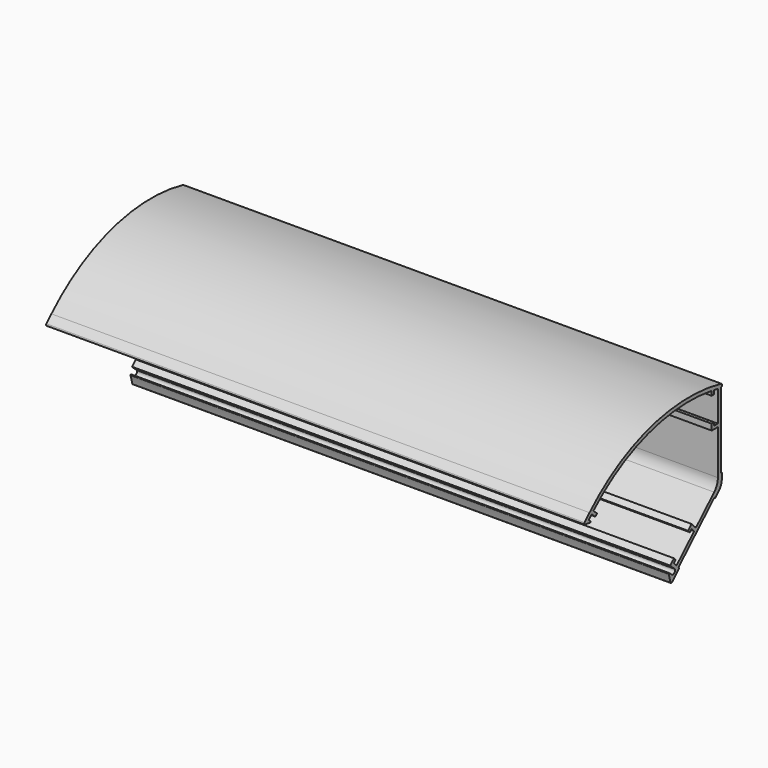
from build123d import *

# Parameters (mm, degrees)
F1_DEPTH  = 112.7125
F2_T      = -1.524
F5_DEPTH  = 225.425
F7_DEPTH  = 225.425
F8_R      = 51.8099901909
F9_DEPTH  = 225.425
F14_W     = 1.27
F14_H     = 1.8664713708
F15_DEPTH = 225.425
F17_DEPTH = 225.425
F18_W     = 0.5953125
F18_H     = 31.75
F19_DEPTH = 225.425
F21_DEPTH = 225.425
F23_DEPTH = 225.425
F24_R     = 0.508
F25_R     = 6.35
F26_R     = 0.254


with BuildPart() as f1:
    # F0 (on Right) → F1 (new body, symmetric)
    with BuildSketch(Plane.YZ):
        with BuildLine():
            Line((-72.136, 14.4276117903), (-26.3105725372, -25.4078245579))
            Line((-26.3105725372, -25.4078245579), (0, 0))
            Line((0, 0), (0, 37.338))
            ThreePointArc((0, 37.338), (-36.8647965725, 36.3151722047), (-68.7392263709, 17.7657752319))
            Line((-68.7392263709, 17.7657752319), (-72.136, 14.4276117903))
        make_face()
    extrude(amount=F1_DEPTH, both=True)

    # F2
    f2_openings = [f1.faces().sort_by_distance(p)[0] for p in [
        (0, -49.223286, -5.490106),
        (-112.7125, -29.609995, 11.681685),
        (112.7125, -29.609995, 11.681685),
    ]]
    offset(amount=F2_T, openings=f2_openings)

    # F4 (on face) → F5 (join, through all)
    with BuildSketch(Plane(origin=(-112.7125, 0, 0), x_dir=(0, -1, 0), z_dir=(-1, 0, 0))):
        Polygon((69.0653059094, 11.7582981414), (70.9822682431, 13.424688075), (69.170655641, 15.2050419106), (67.2536933072, 13.5386519769), align=None)
    extrude(amount=-F5_DEPTH)

    # F6 (on face) → F7 (join, through all)
    with BuildSketch(Plane(origin=(-112.7125, 0, 0), x_dir=(0, -1, 0), z_dir=(-1, 0, 0))):
        Polygon((27.5549826692, -20.9733491998), (25.6380203354, -22.6397391335), (27.4651434283, -24.4041713944), (29.382105762, -22.7377814608), align=None)
    extrude(amount=-F7_DEPTH)

    # F8 (on face) → F9 (cut, through all)
    with BuildSketch(Plane(origin=(-112.7125, 0, 0), x_dir=(0, -1, 0), z_dir=(-1, 0, 0))):
        with Locations((76.7665722185, -37.1750323717)):
            Circle(F8_R)
    extrude(amount=-F9_DEPTH, mode=Mode.SUBTRACT)

    # F10 (on face) + F11 (on face) + F12 (on face) + F13 (on face) + F14 (on face) → F15 (join, through all)
    with BuildSketch(Plane(origin=(-112.7125, 0, 0), x_dir=(0, -1, 0), z_dir=(-1, 0, 0))):
        Polygon((23.17140416, -20.2577555812), (24.0849657065, -21.1399717116), (25.5666650167, -19.8519501518), (24.530017001, -18.8508707997), align=None)
    with BuildSketch(Plane(origin=(-112.7125, 0, 0), x_dir=(0, -1, 0), z_dir=(-1, 0, 0))):
        Polygon((23.6164554546, -17.9686546692), (25.5666650167, -19.8519501518), (26.4488811472, -18.9383886054), (24.498671585, -17.0550931227), align=None)
    with BuildSketch(Plane(origin=(-112.7125, 0, 0), x_dir=(0, -1, 0), z_dir=(-1, 0, 0))):
        Polygon((65.7138225954, 15.0519527371), (67.6307849291, 16.7183426707), (66.724978628, 17.6085195885), (64.8080162943, 15.9421296549), align=None)
    with BuildSketch(Plane(origin=(-112.7125, 0, 0), x_dir=(0, -1, 0), z_dir=(-1, 0, 0))):
        Polygon((13.0308709947, -10.4651565328), (13.9444325411, -11.3473726633), (15.303045382, -9.9404878818), (16.2166069285, -10.8227040123), (17.098823059, -9.9091424658), (15.2716999661, -8.1447102049), align=None)
    with BuildSketch(Plane(origin=(-112.7125, 0, 0), x_dir=(0, -1, 0), z_dir=(-1, 0, 0))):
        Polygon((1.524, 23.2821790422), (1.524, 22.0121790422), (4.7498, 22.0121790422), (4.7498, 24.5521790422), (3.4798, 24.5521790422), (3.4798, 23.2821790422), align=None)
        with Locations((4.1148, 35.7724147276)):
            Rectangle(F14_W, F14_H)
    extrude(amount=-F15_DEPTH)

    # F16 (on face) → F17 (join, through all)
    with BuildSketch(Plane(origin=(-112.7125, 0, 0), x_dir=(0, -1, 0), z_dir=(-1, 0, 0))):
        Polygon((-0.5953125, 37.2036794522), (-0.5953125, -0.252695164), (26.1530440412, -26.0832828204), (26.3105725372, -25.4078245579), (0, 0), (0, 37.338), align=None)
    extrude(amount=-F17_DEPTH)

    # F18 (on face) → F19 (cut, through all)
    with BuildSketch(Plane(origin=(-112.7125, 0, 0), x_dir=(0, -1, 0), z_dir=(-1, 0, 0))):
        with Locations((-0.29765625, 20.2341790422)):
            Rectangle(F18_W, F18_H)
    extrude(amount=-F19_DEPTH, mode=Mode.SUBTRACT)

    # F20 (on face) → F21 (cut, through all)
    with BuildSketch(Plane(origin=(-112.7125, 0, 0), x_dir=(0, -1, 0), z_dir=(-1, 0, 0))):
        Polygon((3.2705379083, -3.1583217457), (2.8569990972, -3.5865537206), (21.6992059923, -21.7822614118), (22.1127448035, -21.3540294369), align=None)
    extrude(amount=-F21_DEPTH, mode=Mode.SUBTRACT)

    # F22 (on face) → F23 (cut, through all)
    with BuildSketch(Plane(origin=(-112.7125, 0, 0), x_dir=(0, -1, 0), z_dir=(-1, 0, 0))):
        with BuildLine():
            Line((25.6380203354, -22.6397391335), (24.0849657065, -21.1399717116))
            ThreePointArc((24.0849657065, -21.1399717116), (24.2715109837, -22.5007997067), (25.6380203354, -22.6397391335))
        make_face()
    extrude(amount=-F23_DEPTH, mode=Mode.SUBTRACT)

    # F24
    f24_edges = [f1.edges().sort_by_distance(p)[0] for p in [
        (0, -72.136, 14.427612),
        (0, 0.595312, 37.203679),
        (0, -26.153044, -26.083283),
    ]]
    fillet(f24_edges, radius=F24_R)

    # F25
    f25_edges = [f1.edges().sort_by_distance(p)[0] for p in [
        (0, -1.524, 0.6469),
        (0, 0.595313, -0.252695),
    ]]
    fillet(f25_edges, radius=F25_R)

    # F26
    f26_edges = [f1.edges().sort_by_distance(p)[0] for p in [
        (0, -27.554983, -20.973349),
        (0, -67.567953, 13.811833),
    ]]
    fillet(f26_edges, radius=F26_R)


solid = f1.part
